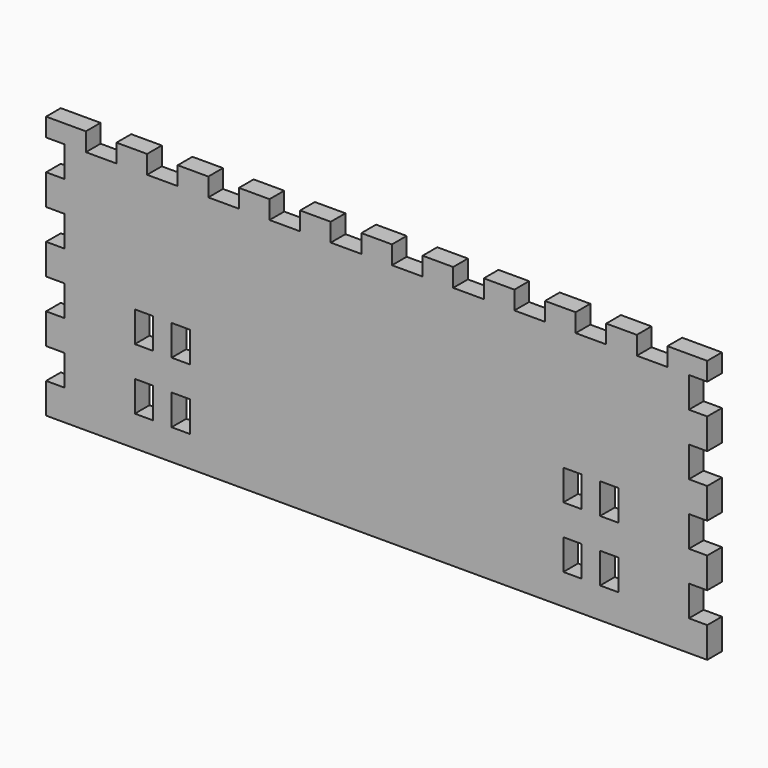
from build123d import *

# Parameters (mm, degrees)
F0_W     = 102
F0_H     = 40
F1_DEPTH = 3
F2_W     = 3
F2_H     = 5
F3_DEPTH = 3
F4_W     = 5
F4_H     = 3
F5_DEPTH = 3
F6_W     = 3
F6_H     = 5
F7_DEPTH = 25


with BuildPart() as f1:
    # F0 (on Front) → F1 (new body)
    with BuildSketch(Plane.XZ):
        Rectangle(F0_W, F0_H)
    extrude(amount=F1_DEPTH)

    # F2 (on face) → F3 (join)
    with BuildSketch(Plane.XZ.offset(3)):
        with Locations((-52.5, -17.5)):
            Rectangle(F2_W, F2_H)
        with Locations((-52.5, -7.5)):
            Rectangle(F2_W, F2_H)
        with Locations((-52.5, 2.5)):
            Rectangle(F2_W, F2_H)
        with Locations((-52.5, 12.5)):
            Rectangle(F2_W, F2_H)
        with Locations((52.5, -7.5)):
            Rectangle(F2_W, F2_H)
        with Locations((52.5, -17.5)):
            Rectangle(F2_W, F2_H)
        with Locations((52.5, 12.5)):
            Rectangle(F2_W, F2_H)
        with Locations((52.5, 2.5)):
            Rectangle(F2_W, F2_H)
    extrude(amount=-F3_DEPTH)

    # F4 (on face) → F5 (join)
    with BuildSketch(Plane(origin=(0, 0, 0), x_dir=(-1, 0, 0), z_dir=(0, 1, 0))):
        with Locations((0, 21.5)):
            Rectangle(F4_W, F4_H)
        with Locations((10, 21.5)):
            Rectangle(F4_W, F4_H)
        with Locations((20, 21.5)):
            Rectangle(F4_W, F4_H)
        with Locations((30, 21.5)):
            Rectangle(F4_W, F4_H)
        with Locations((40, 21.5)):
            Rectangle(F4_W, F4_H)
        Polygon((52.5, 23), (47.5, 23), (47.5, 20), (52.5, 20), (54, 20), (54, 23), align=None)
        Polygon((-52.5, 20), (-47.5, 20), (-47.5, 23), (-52.5, 23), (-54, 23), (-54, 20), align=None)
        with Locations((-20, 21.5)):
            Rectangle(F4_W, F4_H)
        with Locations((-10, 21.5)):
            Rectangle(F4_W, F4_H)
        with Locations((-30, 21.5)):
            Rectangle(F4_W, F4_H)
        with Locations((-40, 21.5)):
            Rectangle(F4_W, F4_H)
    extrude(amount=-F5_DEPTH)

    # F6 (on face) → F7 (cut)
    with BuildSketch(Plane.XZ.offset(3)):
        with Locations((-32, -12.5)):
            Rectangle(F6_W, F6_H)
        with Locations((-32, -2.5)):
            Rectangle(F6_W, F6_H)
        with Locations((-38, -12.5)):
            Rectangle(F6_W, F6_H)
        with Locations((-38, -2.5)):
            Rectangle(F6_W, F6_H)
        with Locations((32, -12.5)):
            Rectangle(F6_W, F6_H)
        with Locations((32, -2.5)):
            Rectangle(F6_W, F6_H)
        with Locations((38, -12.5)):
            Rectangle(F6_W, F6_H)
        with Locations((38, -2.5)):
            Rectangle(F6_W, F6_H)
    extrude(amount=-F7_DEPTH, mode=Mode.SUBTRACT)


solid = f1.part
